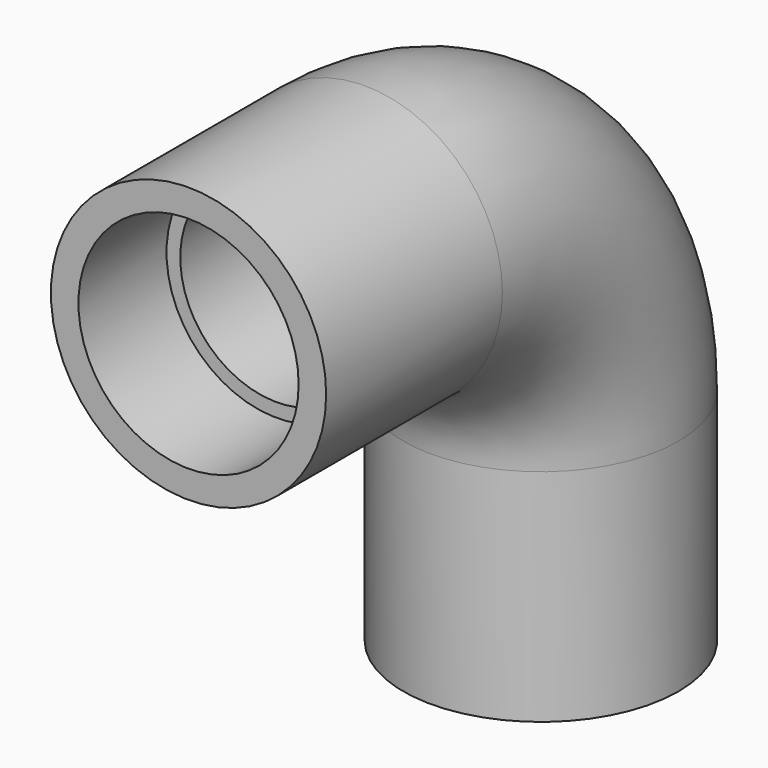
from build123d import *

# Parameters (mm, degrees)
F0_R     = 15.875
F0_R_2   = 11.1125
F3_R     = 12.7
F3_R_2   = 11.1125
F4_DEPTH = 12.7
F5_R     = 12.7
F5_R_2   = 11.1125
F6_DEPTH = 12.7


with BuildPart() as f2:
    # F2: sweep along a path in F1
    with BuildLine(Plane.YZ) as f2_path:
        Line((0, 0), (25.4, 0))
        ThreePointArc((25.4, 0), (43.3605122421, -7.4394877579), (50.8, -25.4))
        Line((50.8, -25.4), (50.8, -50.8))
    # F0 (on Front) → F2 (sweep)
    with BuildSketch(Plane.XZ):
        Circle(F0_R)
        Circle(F0_R_2, mode=Mode.SUBTRACT)
    sweep(path=f2_path.line)

    # F3 (on face) → F4 (cut)
    with BuildSketch(Plane.XZ):
        Circle(F3_R)
        Circle(F3_R_2, mode=Mode.SUBTRACT)
    extrude(amount=-F4_DEPTH, mode=Mode.SUBTRACT)

    # F5 (on face) → F6 (cut)
    with BuildSketch(Plane(origin=(0, 0, -50.8), x_dir=(1, 0, 0), z_dir=(0, 0, -1))):
        with Locations((0, -50.8)):
            Circle(F5_R)
        with Locations((0, -50.8)):
            Circle(F5_R_2, mode=Mode.SUBTRACT)
    extrude(amount=-F6_DEPTH, mode=Mode.SUBTRACT)


solid = f2.part
